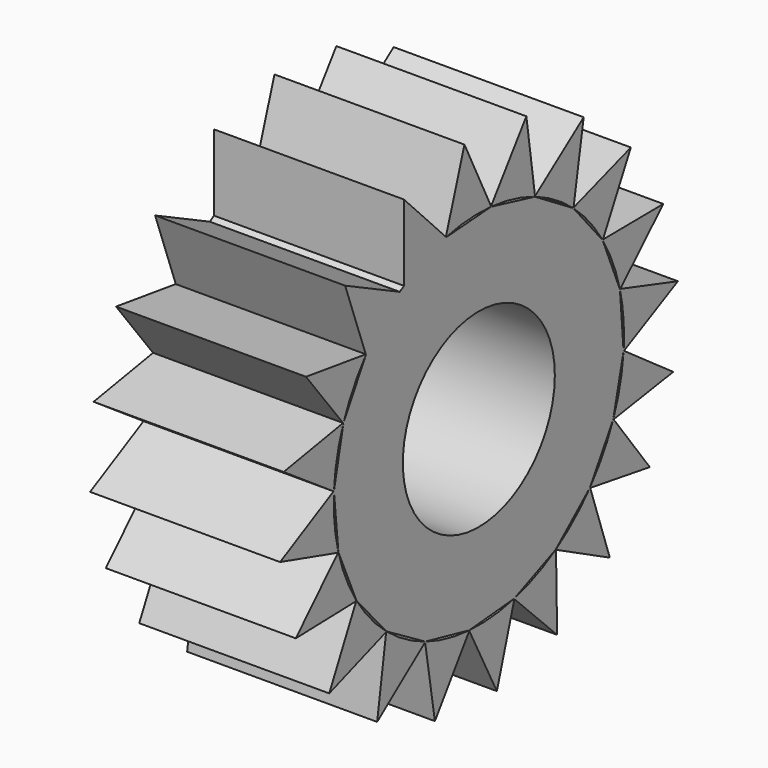
from build123d import *

# Parameters (mm, degrees)
F0_R     = 12.7
F1_DEPTH = 12.7


with BuildPart() as f1:
    # F0 (on Right) → F1 (new body, symmetric)
    with BuildSketch(Plane.YZ):
        with BuildLine():
            ThreePointArc((23.5854054871, 5.6683945708), (24.0885162463, 2.8540206814), (24.257, 0))
            ThreePointArc((24.257, 0), (24.2406926461, -0.8893081786), (24.1917925105, -1.7774206395))
            Line((24.1917925105, -1.7774206395), (24.2518372175, -1.8198767227))
            Line((24.2518372175, -1.8198767227), (33.2643587406, 2.7090486284))
            Line((33.2643587406, 2.7090486284), (23.6377892706, 5.7200068277))
            Line((23.6377892706, 5.7200068277), (23.5854054871, 5.6683945708))
        make_face()
        with BuildLine():
            ThreePointArc((23.5676039215, 5.7419591081), (23.5765333967, 5.7051837826), (23.5854054871, 5.6683945708))
            Line((23.5854054871, 5.6683945708), (23.6377892706, 5.7200068277))
            Line((23.6377892706, 5.7200068277), (23.5676039215, 5.7419591081))
        make_face()
        with BuildLine():
            Line((24.2518372175, -1.8198767227), (24.1917925105, -1.7774206395))
            ThreePointArc((24.1917925105, -1.7774206395), (24.1889900762, -1.8151606243), (24.1861287664, -1.8528961911))
            Line((24.1861287664, -1.8528961911), (24.2518372175, -1.8198767227))
        make_face()
        with BuildLine():
            ThreePointArc((20.7026825957, 12.6412413291), (22.402334496, 9.3025511624), (23.5676039215, 5.7419591081))
            Line((23.5676039215, 5.7419591081), (23.6377892706, 5.7200068277))
            Line((23.6377892706, 5.7200068277), (30.8227094509, 12.7991050077))
            Line((30.8227094509, 12.7991050077), (20.7366733326, 12.7064526444))
            Line((20.7366733326, 12.7064526444), (20.7026825957, 12.6412413291))
        make_face()
        with BuildLine():
            Line((24.1830190921, -1.814712557), (23.5707135958, 5.7037754741))
            Line((23.5707135958, 5.7037754741), (20.6778299975, 12.6703962317))
            Line((20.6778299975, 12.6703962317), (15.7842684775, 18.4110961842))
            Line((15.7842684775, 18.4110961842), (9.3635042744, 22.37043544))
            Line((9.3635042744, 22.37043544), (2.0367767147, 24.1653291864))
            Line((2.0367767147, 24.1653291864), (-5.4870186323, 23.622112958))
            Line((-5.4870186323, 23.622112958), (-12.5154333238, 20.778979227))
            ThreePointArc((-12.5154333238, 20.778979227), (-12.8629795573, 20.5656462556), (-13.2068903428, 20.346500841))
            Line((-13.2068903428, 20.346500841), (-18.839030758, 15.270969654))
            Line((-18.839030758, 15.270969654), (-22.6199467454, 8.7435463805))
            Line((-22.6199467454, 8.7435463805), (-24.2122758236, 1.370143611))
            Line((-24.2122758236, 1.370143611), (-23.4619526177, -6.1358270378))
            Line((-23.4619526177, -6.1358270378), (-20.4415744492, -13.0481273795))
            Line((-20.4415744492, -13.0481273795), (-15.4433772015, -18.6979596396))
            Line((-15.4433772015, -18.6979596396), (-8.9509601151, -22.5386758061))
            Line((-8.9509601151, -22.5386758061), (-1.5924952722, -24.1986684113))
            Line((-1.5924952722, -24.1986684113), (5.9200510257, -23.517325314))
            Line((5.9200510257, -23.517325314), (12.859804367, -20.5605696837))
            Line((12.859804367, -20.5605696837), (18.5553107694, -15.614481622))
            Line((18.5553107694, -15.614481622), (22.4555030315, -9.1576185591))
            Line((22.4555030315, -9.1576185591), (24.1830190921, -1.814712557))
        make_face()
        Circle(F0_R, mode=Mode.SUBTRACT)
        with BuildLine():
            Line((24.2518372175, -1.8198767227), (24.1861287664, -1.8528961911))
            ThreePointArc((24.1861287664, -1.8528961911), (23.6123426483, -5.5551168898), (22.4753106729, -9.1248265276))
            Line((22.4753106729, -9.1248265276), (22.5194051282, -9.1836785866))
            Line((22.5194051282, -9.1836785866), (32.4875238799, -7.6431210279))
            Line((32.4875238799, -7.6431210279), (24.2518372175, -1.8198767227))
        make_face()
        with BuildLine():
            ThreePointArc((20.6631381062, 12.705777135), (20.6829355219, 12.6735246556), (20.7026825957, 12.6412413291))
            Line((20.7026825957, 12.6412413291), (20.7366733326, 12.7064526444))
            Line((20.7366733326, 12.7064526444), (20.6631381062, 12.705777135))
        make_face()
        with BuildLine():
            Line((22.5194051282, -9.1836785866), (22.4753106729, -9.1248265276))
            ThreePointArc((22.4753106729, -9.1248265276), (22.4610474779, -9.1598796496), (22.4467296132, -9.1949104766))
            Line((22.4467296132, -9.1949104766), (22.5194051282, -9.1836785866))
        make_face()
        with BuildLine():
            ThreePointArc((15.8168771762, 18.3909881571), (18.460181062, 15.7360657141), (20.6631381062, 12.705777135))
            Line((20.6631381062, 12.705777135), (20.7366733326, 12.7064526444))
            Line((20.7366733326, 12.7064526444), (25.3988171361, 21.6507873986))
            Line((25.3988171361, 21.6507873986), (15.8291861018, 18.4634890273))
            Line((15.8291861018, 18.4634890273), (15.8168771762, 18.3909881571))
        make_face()
        with BuildLine():
            Line((22.5194051282, -9.1836785866), (22.4467296132, -9.1949104766))
            ThreePointArc((22.4467296132, -9.1949104766), (20.7631233508, -12.5417206841), (18.5842361506, -15.5893622608))
            Line((18.5842361506, -15.5893622608), (18.608114007, -15.6589160803))
            Line((18.608114007, -15.6589160803), (28.5673673184, -17.2557825493))
            Line((28.5673673184, -17.2557825493), (22.5194051282, -9.1836785866))
        make_face()
        with BuildLine():
            ThreePointArc((15.7594158792, 18.4402510868), (15.7881657418, 18.4156420336), (15.8168771762, 18.3909881571))
            Line((15.8168771762, 18.3909881571), (15.8291861018, 18.4634890273))
            Line((15.8291861018, 18.4634890273), (15.7594158792, 18.4402510868))
        make_face()
        with BuildLine():
            ThreePointArc((9.4007140276, 22.3613198352), (12.7319177371, 20.6470414282), (15.7594158792, 18.4402510868))
            Line((15.7594158792, 18.4402510868), (15.8291861018, 18.4634890273))
            Line((15.8291861018, 18.4634890273), (17.5174690492, 28.4076536343))
            Line((17.5174690492, 28.4076536343), (9.3901501952, 22.4340954581))
            Line((9.3901501952, 22.4340954581), (9.4007140276, 22.3613198352))
        make_face()
        with BuildLine():
            Line((18.608114007, -15.6589160803), (18.5842361506, -15.5893622608))
            ThreePointArc((18.5842361506, -15.5893622608), (18.5598922266, -15.6183369645), (18.5355031281, -15.6472736535))
            Line((18.5355031281, -15.6472736535), (18.608114007, -15.6589160803))
        make_face()
        with BuildLine():
            Line((18.608114007, -15.6589160803), (18.5355031281, -15.6472736535))
            ThreePointArc((18.5355031281, -15.6472736535), (15.9049735961, -18.3148536415), (12.8950488205, -20.5455534099))
            Line((12.8950488205, -20.5455534099), (12.8963997824, -20.6190793287))
            Line((12.8963997824, -20.6190793287), (21.8831827577, -25.1988654365))
            Line((21.8831827577, -25.1988654365), (18.608114007, -15.6589160803))
        make_face()
        with BuildLine():
            ThreePointArc((9.3308955757, 22.3905434672), (9.3658161997, 22.3759588825), (9.4007140276, 22.3613198352))
            Line((9.4007140276, 22.3613198352), (9.3901501952, 22.4340954581))
            Line((9.3901501952, 22.4340954581), (9.3308955757, 22.3905434672))
        make_face()
        with BuildLine():
            ThreePointArc((2.0749873027, 24.1680879818), (5.7717811102, 23.5603181603), (9.3308955757, 22.3905434672))
            Line((9.3308955757, 22.3905434672), (9.3901501952, 22.4340954581))
            Line((9.3901501952, 22.4340954581), (7.9412229206, 32.4159449256))
            Line((7.9412229206, 32.4159449256), (2.042572813, 24.2340969713))
            Line((2.042572813, 24.2340969713), (2.0749873027, 24.1680879818))
        make_face()
        with BuildLine():
            Line((12.8963997824, -20.6190793287), (12.8950488205, -20.5455534099))
            ThreePointArc((12.8950488205, -20.5455534099), (12.8629795573, -20.5656462556), (12.8308789858, -20.5856890449))
            Line((12.8308789858, -20.5856890449), (12.8963997824, -20.6190793287))
        make_face()
        with BuildLine():
            Line((12.8963997824, -20.6190793287), (12.8308789858, -20.5856890449))
            ThreePointArc((12.8308789858, -20.5856890449), (9.5079423667, -22.3159378237), (5.9582044839, -23.5138650232))
            Line((5.9582044839, -23.5138650232), (5.9368978393, -23.5842490607))
            Line((5.9368978393, -23.5842490607), (13.0816966908, -30.7038388248))
            Line((13.0816966908, -30.7038388248), (12.8963997824, -20.6190793287))
        make_face()
        with BuildLine():
            ThreePointArc((1.9995669615, 24.1744447913), (2.0372796114, 24.1712958028), (2.0749873027, 24.1680879818))
            Line((2.0749873027, 24.1680879818), (2.042572813, 24.2340969713))
            Line((2.042572813, 24.2340969713), (1.9995669615, 24.1744447913))
        make_face()
        with BuildLine():
            Line((-12.5154333238, 20.778979227), (-5.4870186323, 23.622112958))
            Line((-5.4870186323, 23.622112958), (-5.5252292203, 23.6193541627))
            ThreePointArc((-5.5252292203, 23.6193541627), (-9.1314461451, 22.4726220166), (-12.5154333238, 20.778979227))
        make_face()
        with BuildLine():
            ThreePointArc((-5.4515042648, 23.636479227), (-1.7468026573, 24.1940225981), (1.9995669615, 24.1744447913))
            Line((1.9995669615, 24.1744447913), (2.042572813, 24.2340969713))
            Line((2.042572813, 24.2340969713), (-2.4033741119, 33.2878401188))
            Line((-2.4033741119, 33.2878401188), (-5.5026331565, 23.689334901))
            Line((-5.5026331565, 23.689334901), (-5.4515042648, 23.636479227))
        make_face()
        with BuildLine():
            Line((5.9368978393, -23.5842490607), (5.9582044839, -23.5138650232))
            ThreePointArc((5.9582044839, -23.5138650232), (5.9215127345, -23.523131933), (5.8848065722, -23.5323415879))
            Line((5.8848065722, -23.5323415879), (5.9368978393, -23.5842490607))
        make_face()
        with BuildLine():
            Line((5.9368978393, -23.5842490607), (5.8848065722, -23.5323415879))
            ThreePointArc((5.8848065722, -23.5323415879), (2.1909727116, -24.1578493988), (-1.555124337, -24.2070989029))
            Line((-1.555124337, -24.2070989029), (-1.5970270694, -24.2675310703))
            Line((-1.5970270694, -24.2675310703), (3.0144945526, -33.2380704838))
            Line((3.0144945526, -33.2380704838), (5.9368978393, -23.5842490607))
        make_face()
        with BuildLine():
            ThreePointArc((-5.5252292203, 23.6193541627), (-5.4883734219, 23.6279454499), (-5.4515042648, 23.636479227))
            Line((-5.4515042648, 23.636479227), (-5.5026331565, 23.689334901))
            Line((-5.5026331565, 23.689334901), (-5.5252292203, 23.6193541627))
        make_face()
        with BuildLine():
            Line((-12.5154333238, 30.938979227), (-12.5154333238, 20.778979227))
            ThreePointArc((-12.5154333238, 20.778979227), (-9.1314461451, 22.4726220166), (-5.5252292203, 23.6193541627))
            Line((-5.5252292203, 23.6193541627), (-5.5026331565, 23.689334901))
            Line((-5.5026331565, 23.689334901), (-12.5154333238, 30.938979227))
        make_face()
        with BuildLine():
            Line((-1.5970270694, -24.2675310703), (-1.555124337, -24.2070989029))
            ThreePointArc((-1.555124337, -24.2070989029), (-1.5928884722, -24.2046432594), (-1.6306487304, -24.2021287022))
            Line((-1.6306487304, -24.2021287022), (-1.5970270694, -24.2675310703))
        make_face()
        with BuildLine():
            Line((-1.5970270694, -24.2675310703), (-1.6306487304, -24.2021287022))
            ThreePointArc((-1.6306487304, -24.2021287022), (-5.3379839233, -23.662374704), (-8.9179875178, -22.5581813902))
            Line((-8.9179875178, -22.5581813902), (-8.9764320503, -22.6028145892))
            Line((-8.9764320503, -22.6028145892), (-7.3443742013, -32.5563615056))
            Line((-7.3443742013, -32.5563615056), (-1.5970270694, -24.2675310703))
        make_face()
        with BuildLine():
            Line((-18.839030758, 15.270969654), (-13.2068903428, 20.346500841))
            ThreePointArc((-13.2068903428, 20.346500841), (-16.2106164918, 18.0448874188), (-18.819828877, 15.3041200348))
            Line((-18.819828877, 15.3041200348), (-18.839030758, 15.270969654))
        make_face()
        with BuildLine():
            ThreePointArc((-18.819828877, 15.3041200348), (-16.2106164918, 18.0448874188), (-13.2068903428, 20.346500841))
            Line((-13.2068903428, 20.346500841), (-22.3424144499, 24.7926001751))
            Line((-22.3424144499, 24.7926001751), (-18.8926413835, 15.3144265731))
            Line((-18.8926413835, 15.3144265731), (-18.819828877, 15.3041200348))
        make_face()
        with BuildLine():
            Line((-8.9764320503, -22.6028145892), (-8.9179875178, -22.5581813902))
            ThreePointArc((-8.9179875178, -22.5581813902), (-8.95317018, -22.5442407885), (-8.9883310503, -22.5302453145))
            Line((-8.9883310503, -22.5302453145), (-8.9764320503, -22.6028145892))
        make_face()
        with BuildLine():
            Line((-8.9764320503, -22.6028145892), (-8.9883310503, -22.5302453145))
            ThreePointArc((-8.9883310503, -22.5302453145), (-12.3504653486, -20.8774532612), (-15.4179931969, -18.7266530587))
            Line((-15.4179931969, -18.7266530587), (-15.4873247444, -18.7511688161))
            Line((-15.4873247444, -18.7511688161), (-16.9926399899, -28.7246704605))
            Line((-16.9926399899, -28.7246704605), (-8.9764320503, -22.6028145892))
        make_face()
        with BuildLine():
            ThreePointArc((-18.8674897937, 15.2453231479), (-18.8436822679, 15.2747401806), (-18.819828877, 15.3041200348))
            Line((-18.819828877, 15.3041200348), (-18.8926413835, 15.3144265731))
            Line((-18.8926413835, 15.3144265731), (-18.8674897937, 15.2453231479))
        make_face()
        with BuildLine():
            Line((-15.4873247444, -18.7511688161), (-15.4179931969, -18.7266530587))
            ThreePointArc((-15.4179931969, -18.7266530587), (-15.447190297, -18.702576318), (-15.4763497988, -18.6784540555))
            Line((-15.4763497988, -18.6784540555), (-15.4873247444, -18.7511688161))
        make_face()
        with BuildLine():
            Line((-15.4873247444, -18.7511688161), (-15.4763497988, -18.6784540555))
            ThreePointArc((-15.4763497988, -18.6784540555), (-18.167980796, -16.072539401), (-20.4262350599, -13.0832324093))
            Line((-20.4262350599, -13.0832324093), (-20.499745467, -13.0852587096))
            Line((-20.499745467, -13.0852587096), (-24.9967874323, -22.1137315928))
            Line((-24.9967874323, -22.1137315928), (-15.4873247444, -18.7511688161))
        make_face()
        with BuildLine():
            ThreePointArc((-22.611859892, 8.7809931799), (-20.9900215119, 12.158167869), (-18.8674897937, 15.2453231479))
            Line((-18.8674897937, 15.2453231479), (-18.8926413835, 15.3144265731))
            Line((-18.8926413835, 15.3144265731), (-28.8795497873, 16.7280635752))
            Line((-28.8795497873, 16.7280635752), (-22.684316803, 8.7684280741))
            Line((-22.684316803, 8.7684280741), (-22.611859892, 8.7809931799))
        make_face()
        with BuildLine():
            Line((-20.499745467, -13.0852587096), (-20.4262350599, -13.0832324093))
            ThreePointArc((-20.4262350599, -13.0832324093), (-20.4466216402, -13.0513490683), (-20.4669584538, -13.0194339605))
            Line((-20.4669584538, -13.0194339605), (-20.499745467, -13.0852587096))
        make_face()
        with BuildLine():
            Line((-20.499745467, -13.0852587096), (-20.4669584538, -13.0194339605))
            ThreePointArc((-20.4669584538, -13.0194339605), (-22.2276581111, -9.7125312815), (-23.4581420023, -6.1739471007))
            Line((-23.4581420023, -6.1739471007), (-23.5287187891, -6.1532878897))
            Line((-23.5287187891, -6.1532878897), (-30.5823773793, -13.3631845278))
            Line((-30.5823773793, -13.3631845278), (-20.499745467, -13.0852587096))
        make_face()
        with BuildLine():
            ThreePointArc((-22.6391486264, 8.7103959997), (-22.6255317943, 8.7457052333), (-22.611859892, 8.7809931799))
            Line((-22.611859892, 8.7809931799), (-22.684316803, 8.7684280741))
            Line((-22.684316803, 8.7684280741), (-22.6391486264, 8.7103959997))
        make_face()
        with BuildLine():
            ThreePointArc((-24.2160864391, 1.4082636739), (-23.7104101058, 5.1204005326), (-22.6391486264, 8.7103959997))
            Line((-22.6391486264, 8.7103959997), (-22.684316803, 8.7684280741))
            Line((-22.684316803, 8.7684280741), (-32.6224519942, 7.0450076493))
            Line((-32.6224519942, 7.0450076493), (-24.2811772055, 1.3740426575))
            Line((-24.2811772055, 1.3740426575), (-24.2160864391, 1.4082636739))
        make_face()
        with BuildLine():
            Line((-23.5287187891, -6.1532878897), (-23.4581420023, -6.1739471007))
            ThreePointArc((-23.4581420023, -6.1739471007), (-23.4677455647, -6.1373420234), (-23.477292007, -6.1007220079))
            Line((-23.477292007, -6.1007220079), (-23.5287187891, -6.1532878897))
        make_face()
        with BuildLine():
            Line((-23.5287187891, -6.1532878897), (-23.477292007, -6.1007220079))
            ThreePointArc((-23.477292007, -6.1007220079), (-24.1367042992, -2.4127897905), (-24.2203626771, 1.3326968116))
            Line((-24.2203626771, 1.3326968116), (-24.2811772055, 1.3740426575))
            Line((-24.2811772055, 1.3740426575), (-33.2089775666, -3.319686111))
            Line((-33.2089775666, -3.319686111), (-23.5287187891, -6.1532878897))
        make_face()
        with BuildLine():
            ThreePointArc((-24.2203626771, 1.3326968116), (-24.2182540315, 1.3704819106), (-24.2160864391, 1.4082636739))
            Line((-24.2160864391, 1.4082636739), (-24.2811772055, 1.3740426575))
            Line((-24.2811772055, 1.3740426575), (-24.2203626771, 1.3326968116))
        make_face()
    extrude(amount=F1_DEPTH, both=True)


solid = f1.part
